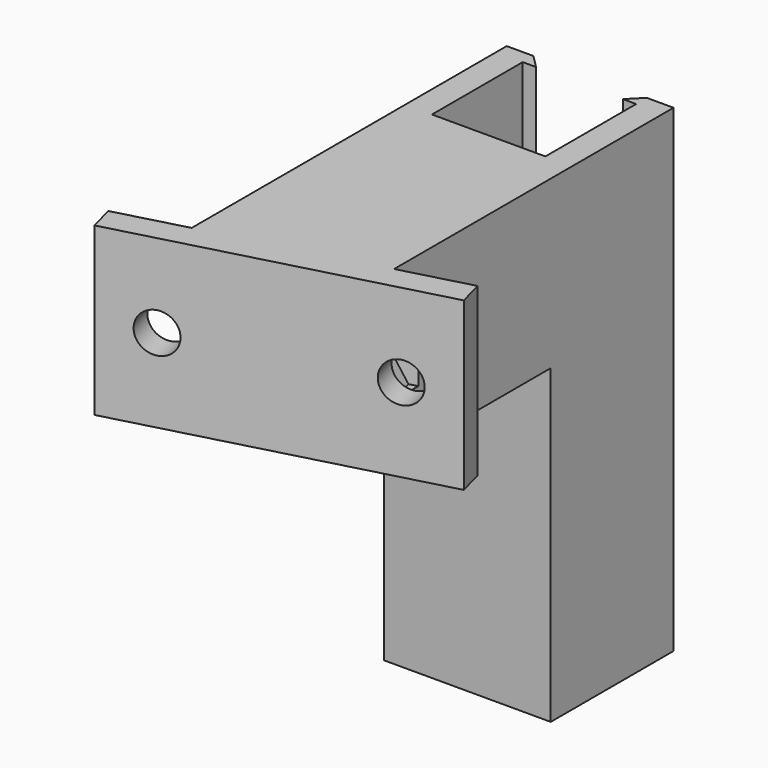
from build123d import *

# Parameters (mm, degrees)
F3_DEPTH  = 18.75
F4_W      = 19.4052183703
F4_H      = 18.75
F4_W_2    = 8
F5_DEPTH  = 3
F6_R      = 2.25
F7_DEPTH  = 12
F9_DEPTH  = 3.3
F11_DEPTH = 35


with BuildPart() as f3:
    # F2 (on Top) → F3 (new body)
    with BuildSketch(Plane.XY):
        Polygon((-6.6899931507, 11.2585633857), (-6.6899931507, 24.0085633857), (-5.1899931507, 24.0085633857), (-6.6899931507, 25.5085633857), (-9.6899931507, 25.5085633857), (-9.6899931507, 24.0085633857), (-9.6899931507, 11.2585633857), (-9.6899931507, -18.7414366143), (9.0600068493, -13.7414366143), (9.0600068493, 11.2585633857), (9.0600068493, 24.0085633857), (9.0600068493, 25.5085633857), (6.0600068493, 25.5085633857), (4.5600068493, 24.0085633857), (6.0600068493, 24.0085633857), (6.0600068493, 11.2585633857), align=None)
    extrude(amount=F3_DEPTH)

    # F4 (on face) → F5 (join)
    with BuildSketch(Plane(origin=(4.0225987819, -15.0847454323, 0), x_dir=(0.9662349396, 0.2576626506, 0), z_dir=(0.2576626506, -0.9662349396, 0))):
        with Locations((-4.4891689949, 9.375)):
            Rectangle(F4_W, F4_H)
        with Locations((-18.1917781801, 9.375)):
            Rectangle(F4_W_2, F4_H)
        with Locations((9.2134401902, 9.375)):
            Rectangle(F4_W_2, F4_H)
    extrude(amount=F5_DEPTH)

    # F6 (on face) → F7 (cut)
    with BuildSketch(Plane(origin=(4.7955867336, -17.9834502511, 0), x_dir=(0.9662349396, 0.2576626506, 0), z_dir=(0.2576626506, -0.9662349396, 0))):
        with Locations((7.2134401902, 9.375)):
            Circle(F6_R)
        with Locations((-16.1917781801, 9.375)):
            Circle(F6_R)
    extrude(amount=-F7_DEPTH, mode=Mode.SUBTRACT)

    # F8 (on face) → F9 (cut)
    with BuildSketch(Plane(origin=(4.0225987819, -15.0847454323, 0), x_dir=(0.9662349396, 0.2576626506, 0), z_dir=(0.2576626506, -0.9662349396, 0))):
        Polygon((5.2134401902, 5.775), (9.2919011593, 5.775), (11.3703621284, 9.375), (9.2919011593, 12.975), (5.2134401902, 12.975), align=None)
        Polygon((5.1349792211, 5.775), (5.2134401902, 5.775), (5.2134401902, 12.975), (5.1349792211, 12.975), (3.0565182521, 9.375), align=None)
        Polygon((-18.2702391492, 5.775), (-14.1917781801, 5.775), (-14.1917781801, 12.975), (-18.2702391492, 12.975), (-20.3487001183, 9.375), align=None)
        Polygon((-14.1917781801, 12.975), (-14.1917781801, 5.775), (-14.113317211, 5.775), (-12.0348562419, 9.375), (-14.113317211, 12.975), align=None)
    extrude(amount=-F9_DEPTH, mode=Mode.SUBTRACT)

    # F10 (on face) → F11 (join)
    with BuildSketch(Plane(origin=(0, 0, 0), x_dir=(1, 0, 0), z_dir=(0, 0, -1))):
        Polygon((9.0600068493, -8.2585633857), (-9.6899931507, -8.2585633857), (-9.6899931507, -25.5085633857), (-6.6899931507, -25.5085633857), (-5.1899931507, -24.0085633857), (-6.6899931507, -24.0085633857), (-6.6899931507, -11.2585633857), (6.0600068493, -11.2585633857), (6.0600068493, -24.0085633857), (4.5600068493, -24.0085633857), (6.0600068493, -25.5085633857), (9.0600068493, -25.5085633857), align=None)
    extrude(amount=F11_DEPTH)


solid = f3.part
